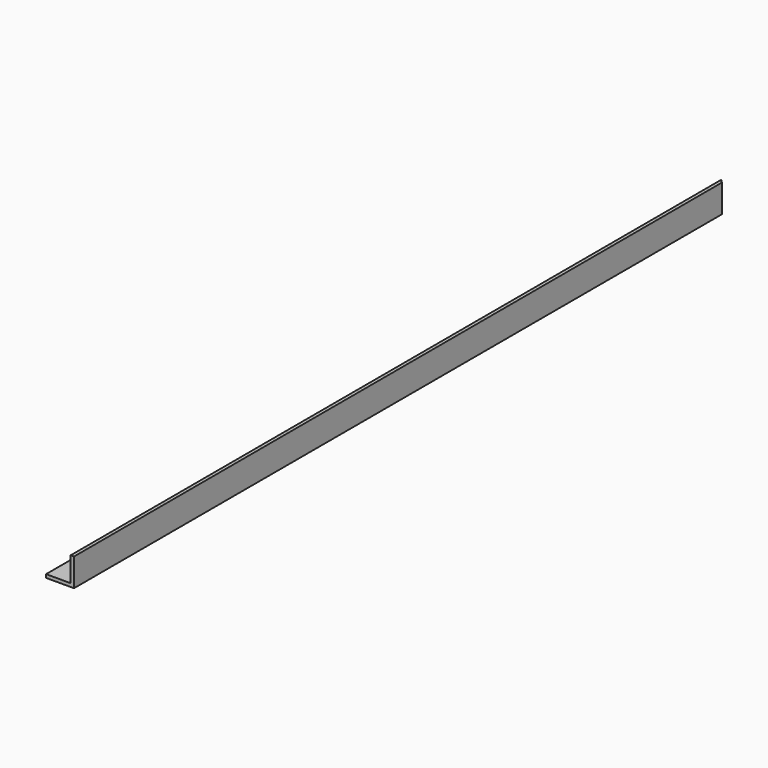
from build123d import *

# Parameters (mm, degrees)
F1_DEPTH = 750
F3_DEPTH = 25


with BuildPart() as f1:
    # F0 (on Front) → F1 (new body)
    with BuildSketch(Plane.XZ):
        Polygon((5.032131, -5.975653), (-16.967869, -5.975653), (-16.967869, -8.975653), (8.032131, -8.975653), (8.032131, 16.024347), (5.032131, 16.024347), align=None)
    extrude(amount=F1_DEPTH)

    # F2 (on face) → F3 (cut)
    with BuildSketch(Plane(origin=(0, 0, -8.975653), x_dir=(1, 0, 0), z_dir=(0, 0, -1))):
        Polygon((8.032131, 750), (-16.967869, 750), (8.032131, 725), align=None)
    extrude(amount=-F3_DEPTH, mode=Mode.SUBTRACT)


with BuildPart() as f4_1:
    # F4: instance of F1
    add(f1.part.mirror(Plane.XZ))


solid = f4_1.part
